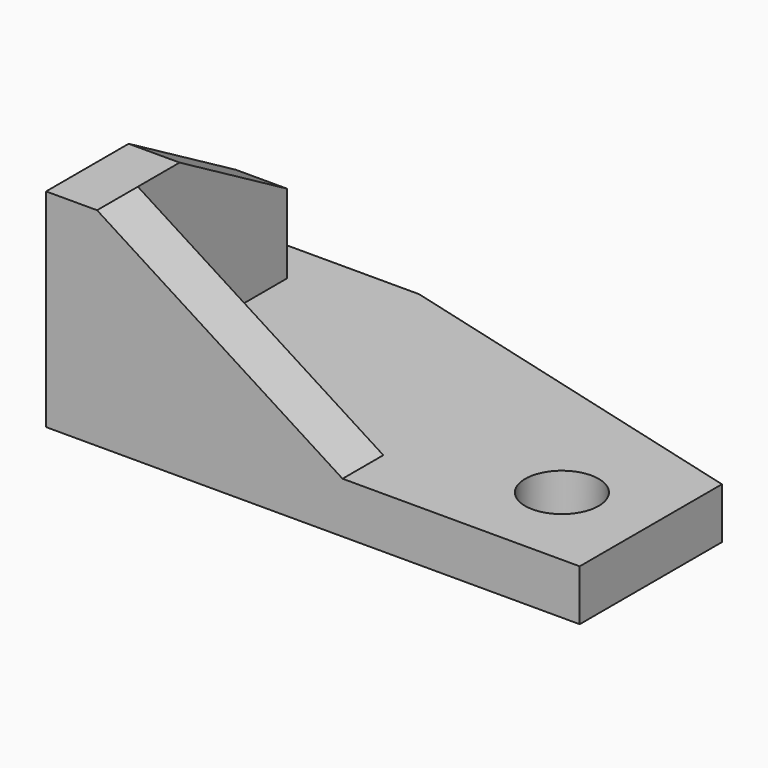
from build123d import *

# Parameters (mm, degrees)
F0_R     = 7.874
F1_DEPTH = 10.922
F3_DEPTH = 10.922
F5_DEPTH = 10.922


with BuildPart() as f1:
    # F0 (on Top) → F1 (new body)
    with BuildSketch(Plane.XY):
        Polygon((-47.664497, 19.224538), (-47.664497, -40.973462), (66.635503, -40.973462), (66.635503, -2.894668), (-15.914497, 19.224538), align=None)
        with Locations((47.585503, -21.923462)):
            Circle(F0_R, mode=Mode.SUBTRACT)
    extrude(amount=F1_DEPTH)



with BuildPart() as f3:
    # F2 (on face) → F3 (new body)
    with BuildSketch(Plane(origin=(-47.664497, 0, 0), x_dir=(0, -1, 0), z_dir=(-1, 0, 0))):
        Polygon((-9.826538, 10.922), (40.973462, 10.922), (40.973462, 44.45), (18.875462, 44.45), (-9.826538, 27.878893), align=None)
    extrude(amount=-F3_DEPTH)


with BuildPart() as f1_1:
    add(f1.part)

    add(f3.part)  # F5 merges F3
    # F4 (on face) → F5 (join)
    with BuildSketch(Plane.XZ.offset(40.973462)):
        Polygon((15.835503, 10.922), (-36.742497, 44.45), (-36.742497, 10.922), align=None)
    extrude(amount=-F5_DEPTH)


solid = f1_1.part
